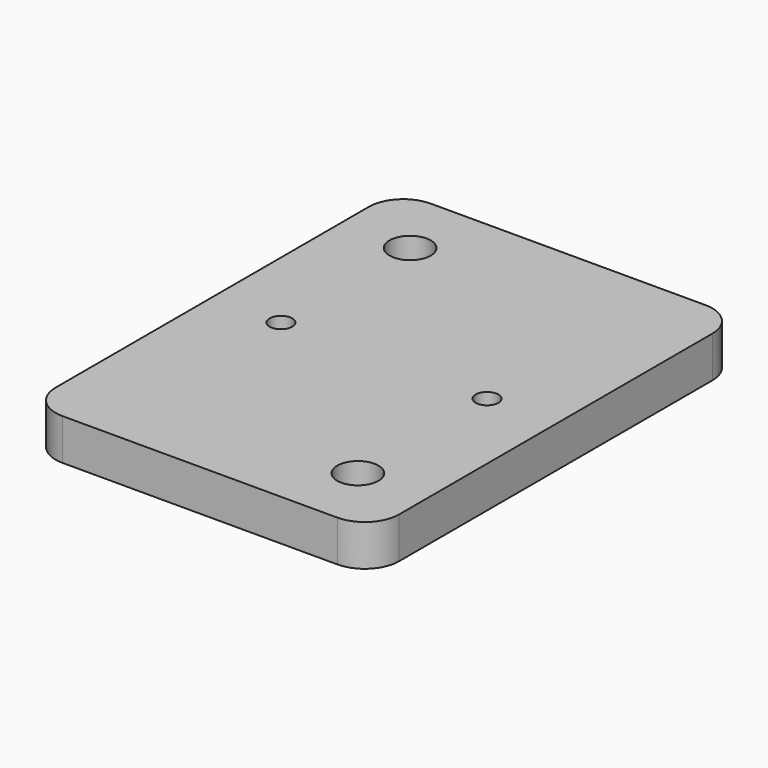
from build123d import *

# Parameters (mm, degrees)
F1_DEPTH = 6
F2_D     = 3.3
F3_D     = 6


with BuildPart() as f1:
    # F0 (on Top) → F1 (new body)
    with BuildSketch(Plane.XY):
        with BuildLine():
            ThreePointArc((25, 28.5), (23.5355339059, 32.0355339059), (20, 33.5))
            Line((20, 33.5), (-20, 33.5))
            ThreePointArc((-20, 33.5), (-23.5355339059, 32.0355339059), (-25, 28.5))
            Line((-25, 28.5), (-25, -28.5))
            ThreePointArc((-25, -28.5), (-23.5355339059, -32.0355339059), (-20, -33.5))
            Line((-20, -33.5), (20, -33.5))
            ThreePointArc((20, -33.5), (23.5355339059, -32.0355339059), (25, -28.5))
            Line((25, -28.5), (25, 28.5))
        make_face()
    extrude(amount=F1_DEPTH)

    # F2 (through all)
    with Locations(Plane(origin=(0, 0, 0), x_dir=(1, 0, 0), z_dir=(0, 0, -1))):
        with Locations((-15, 0), (15, 0)):
            Hole(F2_D / 2)

    # F3 (through all)
    with Locations(Plane(origin=(0, 0, 0), x_dir=(1, 0, 0), z_dir=(0, 0, -1))):
        with Locations((-15, -23.5), (15, 23.5)):
            Hole(F3_D / 2)


solid = f1.part
